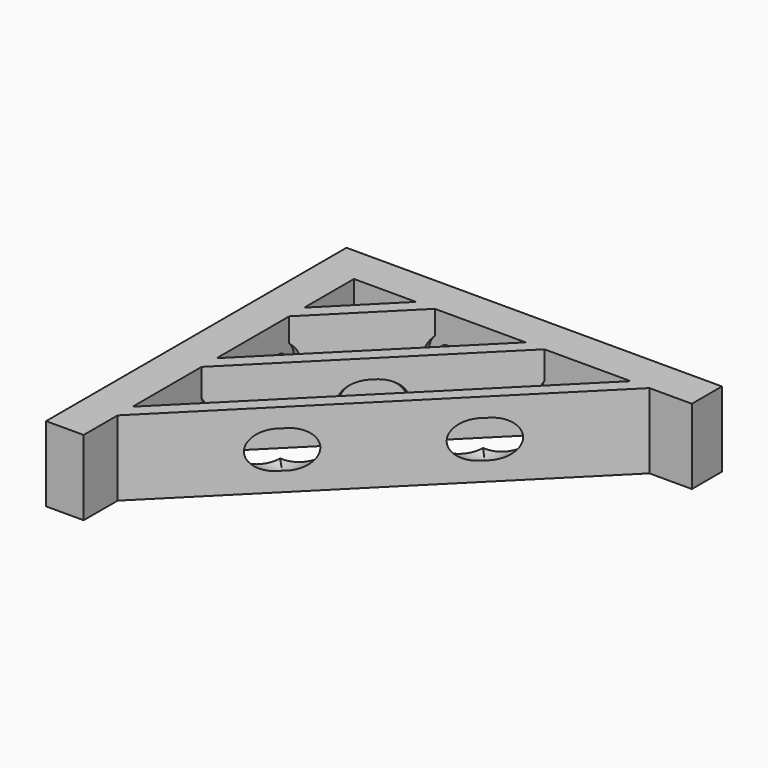
from build123d import *

# Parameters (mm, degrees)
F0_W     = 10
F0_H     = 10
F1_DEPTH = 20
F2_R     = 5
F2_R_2   = 2.5
F3_DEPTH = 86.8
F4_DEPTH = 10
F5_R     = 5
F5_R_2   = 2.5
F6_DEPTH = 102.9
F7_DEPTH = 10


with BuildPart() as f1:
    # F0 (on Top) → F1 (new body)
    with BuildSketch(Plane.XY):
        Polygon((-45.7201178421, 45.7201178421), (-55.7201178421, 45.7201178421), (-55.7201178421, -44.2798821579), (-45.7201178421, -44.2798821579), (-45.7201178421, -32.9700666645), (-45.7201178421, -27.9700666645), (-45.7201178421, -5), (-45.7201178421, 0), (-45.7201178421, 24.1741651532), (-45.7201178421, 29.1741651532), align=None)
        with Locations((-50.7201178421, 50.7201178421)):
            Rectangle(F0_W, F0_H)
        Polygon((44.2798821579, 55.7201178421), (-45.7201178421, 55.7201178421), (-45.7201178421, 45.7201178421), (-29.1741651532, 45.7201178421), (-24.1741651532, 45.7201178421), (0, 45.7201178421), (5, 45.7201178421), (27.9700666645, 45.7201178421), (32.9700666645, 45.7201178421), (44.2798821579, 45.7201178421), align=None)
        Polygon((-29.1741651532, 45.7201178421), (-45.7201178421, 29.1741651532), (-45.7201178421, 24.1741651532), (-24.1741651532, 45.7201178421), align=None)
        Polygon((0, 45.7201178421), (-45.7201178421, 0), (-45.7201178421, -5), (5, 45.7201178421), align=None)
        Polygon((-45.7201178421, -32.9700666645), (32.9700666645, 45.7201178421), (27.9700666645, 45.7201178421), (-45.7201178421, -27.9700666645), align=None)
    extrude(amount=F1_DEPTH)

    # F2 (on face) → F3 (cut)
    with BuildSketch(Plane(origin=(-55.7201178421, 0, 0), x_dir=(0, -1, 0), z_dir=(-1, 0, 0))):
        with Locations((9.2798821579, 10)):
            Circle(F2_R)
        with Locations((9.2798821579, 10)):
            Circle(F2_R_2, mode=Mode.SUBTRACT)
        with Locations((-20.7201178421, 10)):
            Circle(F2_R)
        with Locations((-20.7201178421, 10)):
            Circle(F2_R_2, mode=Mode.SUBTRACT)
        with Locations((9.2798821579, 10)):
            Circle(F2_R_2)
        with Locations((-20.7201178421, 10)):
            Circle(F2_R_2)
    extrude(amount=-F3_DEPTH, mode=Mode.SUBTRACT)

    # F2 (on face) → F4 (join)
    with BuildSketch(Plane(origin=(-55.7201178421, 0, 0), x_dir=(0, -1, 0), z_dir=(-1, 0, 0))):
        with Locations((-20.7201178421, 10)):
            Circle(F2_R)
        with Locations((-20.7201178421, 10)):
            Circle(F2_R_2, mode=Mode.SUBTRACT)
        with Locations((9.2798821579, 10)):
            Circle(F2_R)
        with Locations((9.2798821579, 10)):
            Circle(F2_R_2, mode=Mode.SUBTRACT)
    extrude(amount=-F4_DEPTH)

    # F5 (on face) → F6 (cut)
    with BuildSketch(Plane(origin=(0, 55.7201178421, 0), x_dir=(-1, 0, 0), z_dir=(0, 1, 0))):
        with Locations((20.7201178421, 10)):
            Circle(F5_R)
        with Locations((20.7201178421, 10)):
            Circle(F5_R_2, mode=Mode.SUBTRACT)
        with Locations((-9.2798821579, 10)):
            Circle(F5_R)
        with Locations((-9.2798821579, 10)):
            Circle(F5_R_2, mode=Mode.SUBTRACT)
        with Locations((20.7201178421, 10)):
            Circle(F5_R_2)
        with Locations((-9.2798821579, 10)):
            Circle(F5_R_2)
    extrude(amount=-F6_DEPTH, mode=Mode.SUBTRACT)

    # F5 (on face) → F7 (join)
    with BuildSketch(Plane(origin=(0, 55.7201178421, 0), x_dir=(-1, 0, 0), z_dir=(0, 1, 0))):
        with Locations((-9.2798821579, 10)):
            Circle(F5_R)
        with Locations((-9.2798821579, 10)):
            Circle(F5_R_2, mode=Mode.SUBTRACT)
        with Locations((20.7201178421, 10)):
            Circle(F5_R)
        with Locations((20.7201178421, 10)):
            Circle(F5_R_2, mode=Mode.SUBTRACT)
    extrude(amount=-F7_DEPTH)


solid = f1.part
